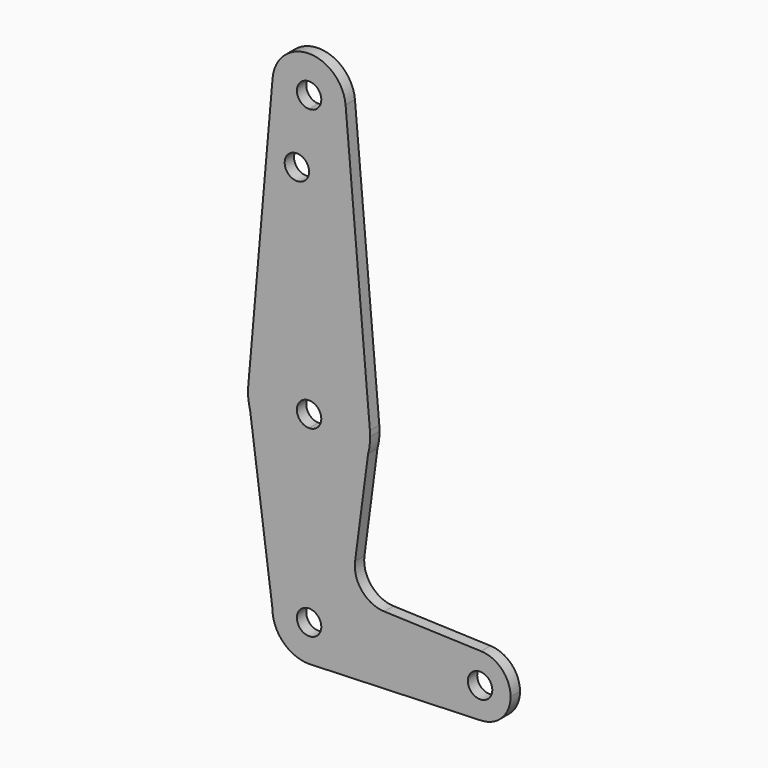
from build123d import *

# Parameters (mm, degrees)
F0_R     = 3.175
F1_DEPTH = 3.048


with BuildPart() as f1:
    # F0 (on Front) → F1 (new body)
    with BuildSketch(Plane.XZ):
        with BuildLine():
            Line((0, 47.625), (0, 39.6362915635))
            Line((0, 39.6362915635), (0, 0))
            ThreePointArc((0, 0), (10.7261648045, -4.1717947302), (15.8148672081, -14.4945652174))
            Line((15.8148672081, -14.4945652174), (9.4889203249, 57.9782608696))
            ThreePointArc((9.4889203249, 57.9782608696), (9.5159758064, 57.5645231631), (9.525, 57.15))
            ThreePointArc((9.525, 57.15), (6.7351920908, 50.4148079092), (0, 47.625))
        make_face()
        with BuildLine():
            Line((0, -53.975), (0, -31.75))
            ThreePointArc((0, -31.75), (-9.6432704577, -28.4854305985), (-15.3204148472, -20.0343886463))
            Line((-15.3204148472, -20.0343886463), (-9.525, -63.5))
            ThreePointArc((-9.525, -63.5), (-6.7351920908, -56.7648079092), (0, -53.975))
        make_face()
        with BuildLine():
            Line((36.5125, -63.5), (9.525, -63.5))
            ThreePointArc((9.525, -63.5), (6.9705567315, -69.9912990883), (0.6773435479, -73.000885786))
            Line((0.6773435479, -73.000885786), (44.7324052746, -71.4324746146))
            ThreePointArc((44.7324052746, -71.4324746146), (38.9380895153, -69.2116327839), (36.5125, -63.5))
        make_face()
        with BuildLine():
            ThreePointArc((-9.4889203249, 57.9782608696), (-7.0219231619, 50.7143011173), (0, 47.625))
            ThreePointArc((0, 47.625), (6.7351920908, 50.4148079092), (9.525, 57.15))
            ThreePointArc((9.525, 57.15), (9.5159758064, 57.5645231631), (9.4889203249, 57.9782608696))
            ThreePointArc((9.4889203249, 57.9782608696), (0, 66.675), (-9.4889203249, 57.9782608696))
        make_face()
        with BuildLine():
            ThreePointArc((3.175, 57.15), (2.2450640303, 54.9049359697), (0, 53.975))
            ThreePointArc((0, 53.975), (-2.2450640303, 59.3950640303), (3.175, 57.15))
        make_face(mode=Mode.SUBTRACT)
        with BuildLine():
            ThreePointArc((44.7343637192, -55.5675953504), (38.9387946314, -57.7876868402), (36.5125, -63.5))
            ThreePointArc((36.5125, -63.5), (38.9380895153, -69.2116327839), (44.7324052746, -71.4324746146))
            ThreePointArc((44.7324052746, -71.4324746146), (50.1616327839, -69.0119104847), (52.3875, -63.5))
            ThreePointArc((52.3875, -63.5), (50.1623131598, -57.9887946314), (44.7343637192, -55.5675953504))
        make_face()
        with BuildLine():
            ThreePointArc((47.625, -63.5), (44.45, -66.675), (41.275, -63.5))
            ThreePointArc((41.275, -63.5), (44.45, -60.325), (47.625, -63.5))
        make_face(mode=Mode.SUBTRACT)
        with BuildLine():
            Line((0, 0), (0, 39.6362915635))
            Line((0, 39.6362915635), (0, 47.625))
            ThreePointArc((0, 47.625), (-7.0219231619, 50.7143011173), (-9.4889203249, 57.9782608696))
            Line((-9.4889203249, 57.9782608696), (-15.8148672081, -14.4945652174))
            ThreePointArc((-15.8148672081, -14.4945652174), (-10.7261648045, -4.1717947302), (0, 0))
        make_face()
        with Locations((-3.175, 39.6362915635)):
            Circle(F0_R, mode=Mode.SUBTRACT)
        with BuildLine():
            ThreePointArc((15.8148672081, -14.4945652174), (10.7261648045, -4.1717947302), (0, 0))
            Line((0, 0), (0, -12.7))
            ThreePointArc((0, -12.7), (2.2450640303, -13.6299359697), (3.175, -15.875))
            ThreePointArc((3.175, -15.875), (2.2450640303, -18.1200640303), (0, -19.05))
            Line((0, -19.05), (0, -31.75))
            ThreePointArc((0, -31.75), (9.6646300784, -28.4690680659), (15.3344263356, -19.9824315526))
            Line((15.3344263356, -19.9824315526), (15.875, -15.875))
            ThreePointArc((15.875, -15.875), (15.8599596773, -15.1841280615), (15.8148672081, -14.4945652174))
        make_face()
        with BuildLine():
            Line((0, -12.7), (0, 0))
            ThreePointArc((0, 0), (-10.7261648045, -4.1717947302), (-15.8148672081, -14.4945652174))
            ThreePointArc((-15.8148672081, -14.4945652174), (-15.8599596773, -15.1841280615), (-15.875, -15.875))
            Line((-15.875, -15.875), (-15.3204148472, -20.0343886463))
            ThreePointArc((-15.3204148472, -20.0343886463), (-9.6432704577, -28.4854305985), (0, -31.75))
            Line((0, -31.75), (0, -19.05))
            ThreePointArc((0, -19.05), (-3.175, -15.875), (0, -12.7))
        make_face()
        with BuildLine():
            ThreePointArc((15.3344263356, -19.9824315526), (9.6646300784, -28.4690680659), (0, -31.75))
            Line((0, -31.75), (0, -53.975))
            ThreePointArc((0, -53.975), (6.7351920908, -56.7648079092), (9.525, -63.5))
            Line((9.525, -63.5), (36.5125, -63.5))
            ThreePointArc((36.5125, -63.5), (38.9387946314, -57.7876868402), (44.7343637192, -55.5675953504))
            Line((44.7343637192, -55.5675953504), (19.5497474973, -54.6647680928))
            ThreePointArc((19.5497474973, -54.6647680928), (13.7642879271, -51.8538873237), (11.9521013331, -45.6822932927))
            Line((11.9521013331, -45.6822932927), (15.3344263356, -19.9824315526))
        make_face()
        with BuildLine():
            Line((0, -60.325), (0, -53.975))
            ThreePointArc((0, -53.975), (-6.7351920908, -56.7648079092), (-9.525, -63.5))
            ThreePointArc((-9.525, -63.5), (-6.7351920908, -70.2351920908), (0, -73.025))
            Line((0, -73.025), (0.6773435479, -73.000885786))
            ThreePointArc((0.6773435479, -73.000885786), (6.9705567315, -69.9912990883), (9.525, -63.5))
            Line((9.525, -63.5), (3.175, -63.5))
            ThreePointArc((3.175, -63.5), (-2.2450640303, -65.7450640303), (0, -60.325))
        make_face()
        with BuildLine():
            ThreePointArc((9.525, -63.5), (6.7351920908, -56.7648079092), (0, -53.975))
            Line((0, -53.975), (0, -60.325))
            ThreePointArc((0, -60.325), (2.2450640303, -61.2549359697), (3.175, -63.5))
            Line((3.175, -63.5), (9.525, -63.5))
        make_face()
        with BuildLine():
            Line((0, 47.625), (0, 39.6362915635))
            Line((0, 39.6362915635), (0, 0))
            ThreePointArc((0, 0), (10.7261648045, -4.1717947302), (15.8148672081, -14.4945652174))
            Line((15.8148672081, -14.4945652174), (9.4889203249, 57.9782608696))
            ThreePointArc((9.4889203249, 57.9782608696), (9.5159758064, 57.5645231631), (9.525, 57.15))
            ThreePointArc((9.525, 57.15), (6.7351920908, 50.4148079092), (0, 47.625))
        make_face()
        with BuildLine():
            Line((0, 0), (0, 39.6362915635))
            Line((0, 39.6362915635), (0, 47.625))
            ThreePointArc((0, 47.625), (-7.0219231619, 50.7143011173), (-9.4889203249, 57.9782608696))
            Line((-9.4889203249, 57.9782608696), (-15.8148672081, -14.4945652174))
            ThreePointArc((-15.8148672081, -14.4945652174), (-10.7261648045, -4.1717947302), (0, 0))
        make_face()
        with Locations((-3.175, 39.6362915635)):
            Circle(F0_R, mode=Mode.SUBTRACT)
        with BuildLine():
            ThreePointArc((15.8148672081, -14.4945652174), (10.7261648045, -4.1717947302), (0, 0))
            Line((0, 0), (0, -12.7))
            ThreePointArc((0, -12.7), (2.2450640303, -13.6299359697), (3.175, -15.875))
            ThreePointArc((3.175, -15.875), (2.2450640303, -18.1200640303), (0, -19.05))
            Line((0, -19.05), (0, -31.75))
            ThreePointArc((0, -31.75), (9.6646300784, -28.4690680659), (15.3344263356, -19.9824315526))
            Line((15.3344263356, -19.9824315526), (15.875, -15.875))
            ThreePointArc((15.875, -15.875), (15.8599596773, -15.1841280615), (15.8148672081, -14.4945652174))
        make_face()
        with BuildLine():
            Line((0, -12.7), (0, 0))
            ThreePointArc((0, 0), (-10.7261648045, -4.1717947302), (-15.8148672081, -14.4945652174))
            ThreePointArc((-15.8148672081, -14.4945652174), (-15.8599596773, -15.1841280615), (-15.875, -15.875))
            Line((-15.875, -15.875), (-15.3204148472, -20.0343886463))
            ThreePointArc((-15.3204148472, -20.0343886463), (-9.6432704577, -28.4854305985), (0, -31.75))
            Line((0, -31.75), (0, -19.05))
            ThreePointArc((0, -19.05), (-3.175, -15.875), (0, -12.7))
        make_face()
        with BuildLine():
            ThreePointArc((-9.4889203249, 57.9782608696), (-7.0219231619, 50.7143011173), (0, 47.625))
            ThreePointArc((0, 47.625), (6.7351920908, 50.4148079092), (9.525, 57.15))
            ThreePointArc((9.525, 57.15), (9.5159758064, 57.5645231631), (9.4889203249, 57.9782608696))
            ThreePointArc((9.4889203249, 57.9782608696), (0, 66.675), (-9.4889203249, 57.9782608696))
        make_face()
        with BuildLine():
            ThreePointArc((3.175, 57.15), (2.2450640303, 54.9049359697), (0, 53.975))
            ThreePointArc((0, 53.975), (-2.2450640303, 59.3950640303), (3.175, 57.15))
        make_face(mode=Mode.SUBTRACT)
        with BuildLine():
            ThreePointArc((15.3344263356, -19.9824315526), (15.7392763982, -17.9464254661), (15.875, -15.875))
            Line((15.875, -15.875), (15.3344263356, -19.9824315526))
        make_face()
        with BuildLine():
            Line((-15.3204148472, -20.0343886463), (-15.875, -15.875))
            ThreePointArc((-15.875, -15.875), (-15.7357429233, -17.9730990564), (-15.3204148472, -20.0343886463))
        make_face()
        with BuildLine():
            ThreePointArc((15.3344263356, -19.9824315526), (9.6646300784, -28.4690680659), (0, -31.75))
            Line((0, -31.75), (0, -53.975))
            ThreePointArc((0, -53.975), (6.7351920908, -56.7648079092), (9.525, -63.5))
            Line((9.525, -63.5), (36.5125, -63.5))
            ThreePointArc((36.5125, -63.5), (38.9387946314, -57.7876868402), (44.7343637192, -55.5675953504))
            Line((44.7343637192, -55.5675953504), (19.5497474973, -54.6647680928))
            ThreePointArc((19.5497474973, -54.6647680928), (13.7642879271, -51.8538873237), (11.9521013331, -45.6822932927))
            Line((11.9521013331, -45.6822932927), (15.3344263356, -19.9824315526))
        make_face()
        with BuildLine():
            Line((0, -53.975), (0, -31.75))
            ThreePointArc((0, -31.75), (-9.6432704577, -28.4854305985), (-15.3204148472, -20.0343886463))
            Line((-15.3204148472, -20.0343886463), (-9.525, -63.5))
            ThreePointArc((-9.525, -63.5), (-6.7351920908, -56.7648079092), (0, -53.975))
        make_face()
        with BuildLine():
            Line((0, -60.325), (0, -53.975))
            ThreePointArc((0, -53.975), (-6.7351920908, -56.7648079092), (-9.525, -63.5))
            ThreePointArc((-9.525, -63.5), (-6.7351920908, -70.2351920908), (0, -73.025))
            Line((0, -73.025), (0.6773435479, -73.000885786))
            ThreePointArc((0.6773435479, -73.000885786), (6.9705567315, -69.9912990883), (9.525, -63.5))
            Line((9.525, -63.5), (3.175, -63.5))
            ThreePointArc((3.175, -63.5), (-2.2450640303, -65.7450640303), (0, -60.325))
        make_face()
        with BuildLine():
            Line((36.5125, -63.5), (9.525, -63.5))
            ThreePointArc((9.525, -63.5), (6.9705567315, -69.9912990883), (0.6773435479, -73.000885786))
            Line((0.6773435479, -73.000885786), (44.7324052746, -71.4324746146))
            ThreePointArc((44.7324052746, -71.4324746146), (38.9380895153, -69.2116327839), (36.5125, -63.5))
        make_face()
        with BuildLine():
            Line((0.6773435479, -73.000885786), (0, -73.025))
            ThreePointArc((0, -73.025), (0.3388863295, -73.0189695375), (0.6773435479, -73.000885786))
        make_face()
        with BuildLine():
            ThreePointArc((44.7343637192, -55.5675953504), (38.9387946314, -57.7876868402), (36.5125, -63.5))
            ThreePointArc((36.5125, -63.5), (38.9380895153, -69.2116327839), (44.7324052746, -71.4324746146))
            ThreePointArc((44.7324052746, -71.4324746146), (50.1616327839, -69.0119104847), (52.3875, -63.5))
            ThreePointArc((52.3875, -63.5), (50.1623131598, -57.9887946314), (44.7343637192, -55.5675953504))
        make_face()
        with BuildLine():
            ThreePointArc((47.625, -63.5), (44.45, -66.675), (41.275, -63.5))
            ThreePointArc((41.275, -63.5), (44.45, -60.325), (47.625, -63.5))
        make_face(mode=Mode.SUBTRACT)
    extrude(amount=F1_DEPTH)


solid = f1.part
